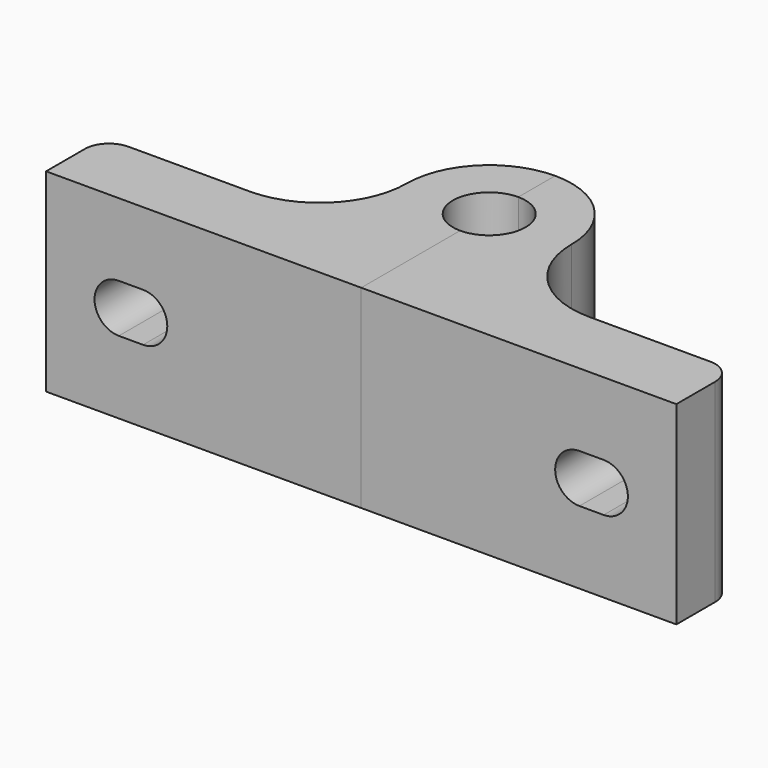
from build123d import *

# Parameters (mm, degrees)
PAD_DEPTH    = 20
POCKET_DEPTH = 232.483876


with BuildPart() as part:
    # Sketch → Pad (new body, symmetric)
    with BuildSketch(Plane.XY):
        with BuildLine():
            ThreePointArc((0, 25.5), (7.5, 33), (0, 40.5))
            Line((0, 40.5), (0, 50))
            ThreePointArc((17, 33), (12.020815, 45.020815), (0, 50))
            ThreePointArc((17, 33), (22.272078, 20.272078), (35, 15))
            Line((35, 15), (47.5, 15))
            Line((47.5, 15), (60, 15))
            ThreePointArc((65, 10), (63.535534, 13.535534), (60, 15))
            Line((65, 10), (65, 0))
            Line((65, 0), (0, 0))
            Line((0, 0), (0, 25.5))
        make_face()
    pad = extrude(amount=PAD_DEPTH, both=True)

    # Sketch001 → Pocket (cut, through all)
    with BuildSketch(Plane.XZ):
        with BuildLine():
            ThreePointArc((50, -5), (55, 0), (50, 5))
            Line((50, 5), (45, 5))
            ThreePointArc((45, 5), (40, 0), (45, -5))
            Line((45, -5), (50, -5))
        make_face()
    pocket = extrude(amount=-POCKET_DEPTH, mode=Mode.SUBTRACT)

    # Mirrored: Pad, Pocket across Sketch V_Axis
    add(pad.mirror(Plane(origin=(0, 0, 0), x_dir=(0, 0, 1), z_dir=(1, 0, 0))))
    add(pocket.mirror(Plane(origin=(0, 0, 0), x_dir=(0, 0, 1), z_dir=(1, 0, 0))), mode=Mode.SUBTRACT)


solid = part.part
